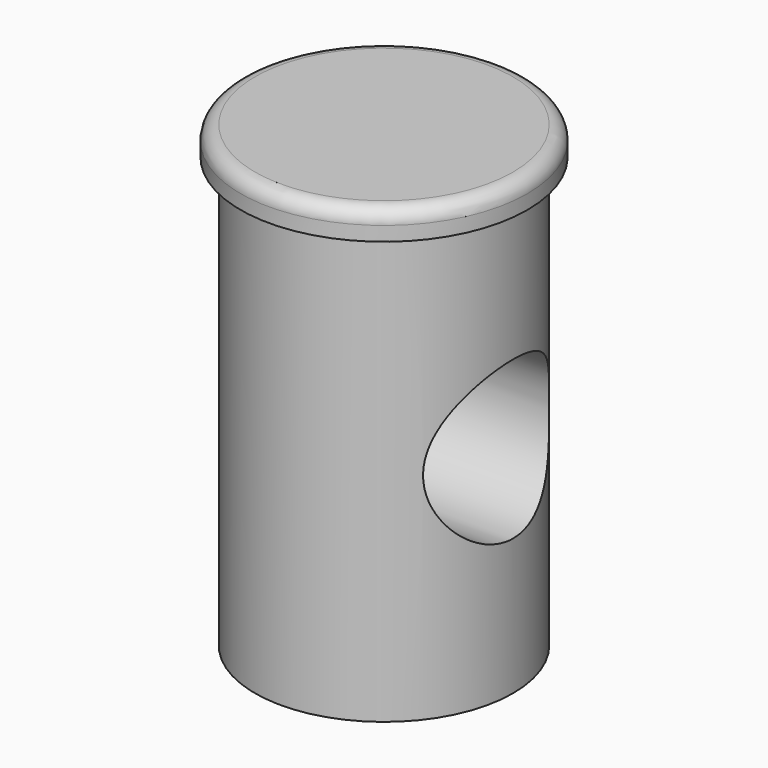
from build123d import *

# Parameters (mm, degrees)
F0_R     = 100
F0_R_2   = 90
F1_DEPTH = 20
F2_DEPTH = 320
F3_R     = 10
F4_R     = 55
F5_DEPTH = 500


with BuildPart() as f1:
    # F0 (on Top) → F1 (new body)
    with BuildSketch(Plane.XY):
        Circle(F0_R)
        Circle(F0_R_2, mode=Mode.SUBTRACT)
    extrude(amount=-F1_DEPTH)

    # F0 (on Top) → F2 (join)
    with BuildSketch(Plane.XY):
        Circle(F0_R_2)
    extrude(amount=-F2_DEPTH)

    # F3
    f3_edges = [f1.edges().sort_by_distance(p)[0] for p in [
        (-100, 0, 0),
    ]]
    fillet(f3_edges, radius=F3_R)

    # F4 (on Right) → F5 (cut, symmetric)
    with BuildSketch(Plane.YZ):
        with Locations((0, -170)):
            Circle(F4_R)
    extrude(amount=F5_DEPTH, both=True, mode=Mode.SUBTRACT)


solid = f1.part
